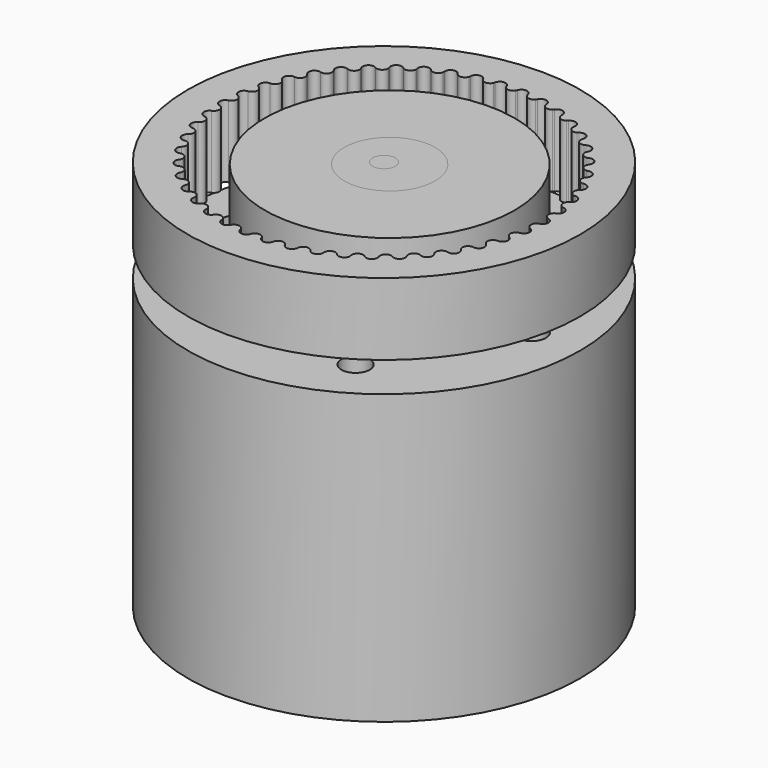
from build123d import *

# Parameters (mm, degrees)
F0_R     = 17.272
F0_R_2   = 1.25
F0_R_3   = 3.175
F0_R_4   = 1
F1_DEPTH = 25.4
F2_DEPTH = 9
F3_DEPTH = 2
F5_R     = 4
F5_R_2   = 1
F6_DEPTH = 7
F5_R_3   = 11
F7_DEPTH = 7
F5_R_4   = 17.272
F8_DEPTH = 6.35


with BuildPart() as f1:
    # F0 (on Top) → F1 (new body)
    with BuildSketch(Plane.XY):
        Circle(F0_R)
        with Locations((-6.5, -11.2583302492)):
            Circle(F0_R_2, mode=Mode.SUBTRACT)
        with Locations((6.5, -11.2583302492)):
            Circle(F0_R_2, mode=Mode.SUBTRACT)
        with Locations((-13, 0)):
            Circle(F0_R_2, mode=Mode.SUBTRACT)
        with Locations((-6.5, 11.2583302492)):
            Circle(F0_R_2, mode=Mode.SUBTRACT)
        Circle(F0_R_3, mode=Mode.SUBTRACT)
        with Locations((13, 0)):
            Circle(F0_R_2, mode=Mode.SUBTRACT)
        with Locations((6.5, 11.2583302492)):
            Circle(F0_R_2, mode=Mode.SUBTRACT)
        Circle(F0_R_3)
        Circle(F0_R_4, mode=Mode.SUBTRACT)
        Circle(F0_R_4)
    extrude(amount=-F1_DEPTH)

    # F0 (on Top) → F2 (join)
    with BuildSketch(Plane.XY):
        Circle(F0_R_4)
    extrude(amount=F2_DEPTH)

    # F0 (on Top) → F3 (join)
    with BuildSketch(Plane.XY):
        Circle(F0_R_3)
        Circle(F0_R_4, mode=Mode.SUBTRACT)
    extrude(amount=F3_DEPTH)


with BuildPart() as f6:
    # F5 (on face) → F6 (new body)
    with BuildSketch(Plane.XY.offset(9)):
        with Locations((0.5, 0)):
            Circle(F5_R)
        Circle(F5_R_2, mode=Mode.SUBTRACT)
    extrude(amount=-F6_DEPTH)


with BuildPart() as f7:
    # F5 (on face) → F7 (new body)
    with BuildSketch(Plane.XY.offset(9)):
        with Locations((0.5, 0)):
            Circle(F5_R_3)
        with Locations((0.5, 0)):
            Circle(F5_R, mode=Mode.SUBTRACT)
    extrude(amount=-F7_DEPTH)


with BuildPart() as f8:
    # F5 (on face) → F8 (new body)
    with BuildSketch(Plane.XY.offset(9)):
        Circle(F5_R_4)
        with BuildLine():
            ThreePointArc((-14.0880578722, -0.485862469), (-14.47, 0), (-14.0880578722, 0.485862469))
            ThreePointArc((-14.0880578722, 0.485862469), (-13.7167689008, 0.8690620595), (-13.9027430775, 1.3691730793))
            ThreePointArc((-13.9027430775, 1.3691730793), (-13.9605193227, 1.4072503651), (-14.0229992053, 1.436986513))
            ThreePointArc((-14.0229992053, 1.436986513), (-14.3352256391, 1.9703314124), (-13.8906826766, 2.3996607525))
            ThreePointArc((-13.8906826766, 2.3996607525), (-13.4706729065, 2.7287340263), (-13.586816468, 3.2495104654))
            ThreePointArc((-13.586816468, 3.2495104654), (-13.6388697257, 3.2951002951), (-13.6967185957, 3.3330671551))
            ThreePointArc((-13.6967185957, 3.3330671551), (-13.9334131479, 3.9039592786), (-13.4345503449, 4.2687578965))
            ThreePointArc((-13.4345503449, 4.2687578965), (-12.9736437635, 4.537574841), (-13.0177931749, 5.0693156199))
            ThreePointArc((-13.0177931749, 5.0693156199), (-13.0631537915, 5.1215687412), (-13.1152940338, 5.1670590625))
            ThreePointArc((-13.1152940338, 5.1670590625), (-13.2720475328, 5.7648637701), (-12.7281577595, 6.0583361577))
            ThreePointArc((-12.7281577595, 6.0583361577), (-12.2349401843, 6.261889222), (-12.2062730256, 6.794689016))
            ThreePointArc((-12.2062730256, 6.794689016), (-12.2440960185, 6.852632052), (-12.2895563592, 6.9047984361))
            ThreePointArc((-12.2895563592, 6.9047984361), (-12.3634487838, 7.518379757), (-11.7846636776, 7.7350590791))
            ThreePointArc((-11.7846636776, 7.7350590791), (-11.2683228188, 7.8695564546), (-11.167373105, 8.3934902116))
            ThreePointArc((-11.167373105, 8.3934902116), (-11.1969539035, 8.4560437933), (-11.2348875024, 8.5139144792))
            ThreePointArc((-11.2348875024, 8.5139144792), (-11.2245423765, 9.1318425544), (-10.6216436088, 9.2676924851))
            ThreePointArc((-10.6216436088, 9.2676924851), (-10.0917979197, 9.3306287403), (-9.920446153, 9.8359365658))
            ThreePointArc((-9.920446153, 9.8359365658), (-9.9412337226, 9.9019354382), (-9.9709339486, 9.9644324044))
            ThreePointArc((-9.9709339486, 9.9644324044), (-9.8765439824, 10.5751964031), (-9.2607624165, 10.6276863153))
            ThreePointArc((-9.2607624165, 10.6276863153), (-8.7272819197, 10.6178890668), (-8.4887200593, 11.095158032))
            ThreePointArc((-8.4887200593, 11.095158032), (-8.5003271671, 11.1633727611), (-8.5212407611, 11.2293318074))
            ThreePointArc((-8.5212407611, 11.2293318074), (-8.344564261, 11.8215543519), (-7.7273707424, 11.7897064577))
            ThreePointArc((-7.7273707424, 11.7897064577), (-7.2001931703, 11.7073582098), (-6.8988651721, 12.147697697))
            ThreePointArc((-6.8988651721, 12.147697697), (-6.9010755997, 12.2168575713), (-6.912812981, 12.2850500056))
            ThreePointArc((-6.912812981, 12.2850500056), (-6.657141096, 12.8476991103), (-6.0500327721, 12.7321066759))
            ThreePointArc((-6.0500327721, 12.7321066759), (-5.5389784454, 12.5787414205), (-5.18049748, 12.9739487381))
            ThreePointArc((-5.18049748, 12.9739487381), (-5.1732700512, 13.0427654402), (-5.1756125746, 13.1119209663))
            ThreePointArc((-5.1756125746, 13.1119209663), (-4.8457079881, 13.6345155431), (-4.2599941384, 13.4373318367))
            ThreePointArc((-4.2599941384, 13.4373318367), (-3.7745830321, 13.2158064784), (-3.3656269217, 13.558519662))
            ThreePointArc((-3.3656269217, 13.558519662), (-3.3490962698, 13.6257112668), (-3.3420002986, 13.6945416482))
            ThreePointArc((-3.3420002986, 13.6945416482), (-2.9440085089, 14.1673467488), (-2.3905998741, 13.8922449299))
            ThreePointArc((-2.3905998741, 13.8922449299), (-1.9398742788, 13.6066860669), (-1.4880611018, 13.8905210182))
            ThreePointArc((-1.4880611018, 13.8905210182), (-1.4625351616, 13.9548358733), (-1.4461328803, 14.0220589302))
            ThreePointArc((-1.4461328803, 14.0220589302), (-0.9874677214, 14.4362670902), (-0.4766732574, 14.0883717851))
            ThreePointArc((-0.4766732574, 14.0883717851), (-0.0690293381, 13.7440988388), (0.4172244808, 13.9637682497))
            ThreePointArc((0.4172244808, 13.9637682497), (0.4512702093, 14.0240082911), (0.4766732574, 14.0883717851))
            ThreePointArc((0.4766732574, 14.0883717851), (0.9874677214, 14.4362670902), (1.4461328803, 14.0220589302))
            ThreePointArc((1.4461328803, 14.0220589302), (1.8031014886, 13.6254850542), (2.3147379608, 13.7768968993))
            ThreePointArc((2.3147379608, 13.7768968993), (2.3566692701, 13.8319399688), (2.3905998741, 13.8922449299))
            ThreePointArc((2.3905998741, 13.8922449299), (2.9440085089, 14.1673467488), (3.3420002986, 13.6945416482))
            ThreePointArc((3.3420002986, 13.6945416482), (3.6416439462, 13.2530542635), (4.1691322522, 13.3333880264))
            ThreePointArc((4.1691322522, 13.3333880264), (4.2181680414, 13.382208776), (4.2599941384, 13.4373318367))
            ThreePointArc((4.2599941384, 13.4373318367), (4.8457079881, 13.6345155431), (5.1756125746, 13.1119209663))
            ThreePointArc((5.1756125746, 13.1119209663), (5.4123494673, 12.6337441475), (5.9458634981, 12.6415033624))
            ThreePointArc((5.9458634981, 12.6415033624), (6.0010903232, 12.6831923538), (6.0500327721, 12.7321066759))
            ThreePointArc((6.0500327721, 12.7321066759), (6.657141096, 12.8476991103), (6.912812981, 12.2850500056))
            ThreePointArc((6.912812981, 12.2850500056), (7.0822331584, 11.779091282), (7.611834557, 11.7141314094))
            ThreePointArc((7.611834557, 11.7141314094), (7.6722236468, 11.7479120555), (7.7273707424, 11.7897064577))
            ThreePointArc((7.7273707424, 11.7897064577), (8.344564261, 11.8215543519), (8.5212407611, 11.2293318074))
            ThreePointArc((8.5212407611, 11.2293318074), (8.6201882459, 10.7050162329), (9.1360115403, 10.5685473522))
            ThreePointArc((9.1360115403, 10.5685473522), (9.2004379602, 10.5937903836), (9.2607624165, 10.6276863153))
            ThreePointArc((9.2607624165, 10.6276863153), (9.8765439824, 10.5751964031), (9.9709339486, 9.9644324044))
            ThreePointArc((9.9709339486, 9.9644324044), (9.9975655363, 9.431526986), (10.4900019146, 9.2260912543))
            ThreePointArc((10.4900019146, 9.2260912543), (10.5572655223, 9.242326441), (10.6216436088, 9.2676924851))
            ThreePointArc((10.6216436088, 9.2676924851), (11.2245423765, 9.1318425544), (11.2348875024, 8.5139144792))
            ThreePointArc((11.2348875024, 8.5139144792), (11.188707097, 7.9823462365), (11.648583401, 7.7117705328))
            ThreePointArc((11.648583401, 7.7117705328), (11.7174312028, 7.718695444), (11.7846636776, 7.7350590791))
            ThreePointArc((11.7846636776, 7.7350590791), (12.3634487838, 7.518379757), (12.2895563592, 6.9047984361))
            ThreePointArc((12.2895563592, 6.9047984361), (12.1714242142, 6.3844694798), (12.5901738187, 6.0537941174))
            ThreePointArc((12.5901738187, 6.0537941174), (12.6593233103, 6.0512797552), (12.7281577595, 6.0583361577))
            ThreePointArc((12.7281577595, 6.0583361577), (13.2720475328, 5.7648637701), (13.1152940338, 5.1670590625))
            ThreePointArc((13.1152940338, 5.1670590625), (12.9274107276, 4.6676621365), (13.2972331196, 4.2830469719))
            ThreePointArc((13.2972331196, 4.2830469719), (13.3653961768, 4.271140174), (13.4345503449, 4.2687578965))
            ThreePointArc((13.4345503449, 4.2687578965), (13.9334131479, 3.9039592786), (13.6967185957, 3.3330671551))
            ThreePointArc((13.6967185957, 3.3330671551), (13.4425840387, 2.8639050792), (13.7565901268, 2.4325147651))
            ThreePointArc((13.7565901268, 2.4325147651), (13.8224970009, 2.4114373327), (13.8906826766, 2.3996607525))
            ThreePointArc((13.8906826766, 2.3996607525), (14.3352256391, 1.9703314124), (14.0229992053, 1.436986513))
            ThreePointArc((14.0229992053, 1.436986513), (13.7073474436, 1.006798889), (13.9596878885, 0.5366694108))
            ThreePointArc((13.9596878885, 0.5366694108), (14.0221108591, 0.5068139765), (14.0880578722, 0.485862469))
            ThreePointArc((14.0880578722, 0.485862469), (14.47, 0), (14.0880578722, -0.485862469))
            ThreePointArc((14.0880578722, -0.485862469), (13.7167689008, -0.8690620595), (13.9027430775, -1.3691730793))
            ThreePointArc((13.9027430775, -1.3691730793), (13.9605193227, -1.4072503651), (14.0229992053, -1.436986513))
            ThreePointArc((14.0229992053, -1.436986513), (14.3352256391, -1.9703314124), (13.8906826766, -2.3996607525))
            ThreePointArc((13.8906826766, -2.3996607525), (13.4706729065, -2.7287340263), (13.586816468, -3.2495104654))
            ThreePointArc((13.586816468, -3.2495104654), (13.6388697257, -3.2951002951), (13.6967185957, -3.3330671551))
            ThreePointArc((13.6967185957, -3.3330671551), (13.9334131479, -3.9039592786), (13.4345503449, -4.2687578965))
            ThreePointArc((13.4345503449, -4.2687578965), (12.9736437635, -4.537574841), (13.0177931749, -5.0693156199))
            ThreePointArc((13.0177931749, -5.0693156199), (13.0631537915, -5.1215687412), (13.1152940338, -5.1670590625))
            ThreePointArc((13.1152940338, -5.1670590625), (13.2720475328, -5.7648637701), (12.7281577595, -6.0583361577))
            ThreePointArc((12.7281577595, -6.0583361577), (12.2349401843, -6.261889222), (12.2062730256, -6.794689016))
            ThreePointArc((12.2062730256, -6.794689016), (12.2440960185, -6.852632052), (12.2895563592, -6.9047984361))
            ThreePointArc((12.2895563592, -6.9047984361), (12.3634487838, -7.518379757), (11.7846636776, -7.7350590791))
            ThreePointArc((11.7846636776, -7.7350590791), (11.2683228188, -7.8695564546), (11.167373105, -8.3934902116))
            ThreePointArc((11.167373105, -8.3934902116), (11.1969539035, -8.4560437933), (11.2348875024, -8.5139144792))
            ThreePointArc((11.2348875024, -8.5139144792), (11.2245423765, -9.1318425544), (10.6216436088, -9.2676924851))
            ThreePointArc((10.6216436088, -9.2676924851), (10.0917979197, -9.3306287403), (9.920446153, -9.8359365658))
            ThreePointArc((9.920446153, -9.8359365658), (9.9412337226, -9.9019354382), (9.9709339486, -9.9644324044))
            ThreePointArc((9.9709339486, -9.9644324044), (9.8765439824, -10.5751964031), (9.2607624165, -10.6276863153))
            ThreePointArc((9.2607624165, -10.6276863153), (8.7272819197, -10.6178890668), (8.4887200593, -11.095158032))
            ThreePointArc((8.4887200593, -11.095158032), (8.5003271671, -11.1633727611), (8.5212407611, -11.2293318074))
            ThreePointArc((8.5212407611, -11.2293318074), (8.344564261, -11.8215543519), (7.7273707424, -11.7897064577))
            ThreePointArc((7.7273707424, -11.7897064577), (7.2001931703, -11.7073582098), (6.8988651721, -12.147697697))
            ThreePointArc((6.8988651721, -12.147697697), (6.9010755997, -12.2168575713), (6.912812981, -12.2850500056))
            ThreePointArc((6.912812981, -12.2850500056), (6.657141096, -12.8476991103), (6.0500327721, -12.7321066759))
            ThreePointArc((6.0500327721, -12.7321066759), (5.5389784454, -12.5787414205), (5.18049748, -12.9739487381))
            ThreePointArc((5.18049748, -12.9739487381), (5.1732700512, -13.0427654402), (5.1756125746, -13.1119209663))
            ThreePointArc((5.1756125746, -13.1119209663), (4.8457079881, -13.6345155431), (4.2599941384, -13.4373318367))
            ThreePointArc((4.2599941384, -13.4373318367), (3.7745830321, -13.2158064784), (3.3656269217, -13.558519662))
            ThreePointArc((3.3656269217, -13.558519662), (3.3490962698, -13.6257112668), (3.3420002986, -13.6945416482))
            ThreePointArc((3.3420002986, -13.6945416482), (2.9440085089, -14.1673467488), (2.3905998741, -13.8922449299))
            ThreePointArc((2.3905998741, -13.8922449299), (1.9398742788, -13.6066860669), (1.4880611018, -13.8905210182))
            ThreePointArc((1.4880611018, -13.8905210182), (1.4625351616, -13.9548358733), (1.4461328803, -14.0220589302))
            ThreePointArc((1.4461328803, -14.0220589302), (0.9874677214, -14.4362670902), (0.4766732574, -14.0883717851))
            ThreePointArc((0.4766732574, -14.0883717851), (0.0690293381, -13.7440988388), (-0.4172244808, -13.9637682497))
            ThreePointArc((-0.4172244808, -13.9637682497), (-0.4512702093, -14.0240082911), (-0.4766732574, -14.0883717851))
            ThreePointArc((-0.4766732574, -14.0883717851), (-0.9874677214, -14.4362670902), (-1.4461328803, -14.0220589302))
            ThreePointArc((-1.4461328803, -14.0220589302), (-1.8031014886, -13.6254850542), (-2.3147379608, -13.7768968993))
            ThreePointArc((-2.3147379608, -13.7768968993), (-2.3566692701, -13.8319399688), (-2.3905998741, -13.8922449299))
            ThreePointArc((-2.3905998741, -13.8922449299), (-2.9440085089, -14.1673467488), (-3.3420002986, -13.6945416482))
            ThreePointArc((-3.3420002986, -13.6945416482), (-3.6416439462, -13.2530542635), (-4.1691322522, -13.3333880264))
            ThreePointArc((-4.1691322522, -13.3333880264), (-4.2181680414, -13.382208776), (-4.2599941384, -13.4373318367))
            ThreePointArc((-4.2599941384, -13.4373318367), (-4.8457079881, -13.6345155431), (-5.1756125746, -13.1119209663))
            ThreePointArc((-5.1756125746, -13.1119209663), (-5.4123494673, -12.6337441475), (-5.9458634981, -12.6415033624))
            ThreePointArc((-5.9458634981, -12.6415033624), (-6.0010903232, -12.6831923538), (-6.0500327721, -12.7321066759))
            ThreePointArc((-6.0500327721, -12.7321066759), (-6.657141096, -12.8476991103), (-6.912812981, -12.2850500056))
            ThreePointArc((-6.912812981, -12.2850500056), (-7.0822331584, -11.779091282), (-7.611834557, -11.7141314094))
            ThreePointArc((-7.611834557, -11.7141314094), (-7.6722236468, -11.7479120555), (-7.7273707424, -11.7897064577))
            ThreePointArc((-7.7273707424, -11.7897064577), (-8.344564261, -11.8215543519), (-8.5212407611, -11.2293318074))
            ThreePointArc((-8.5212407611, -11.2293318074), (-8.6201882459, -10.7050162329), (-9.1360115403, -10.5685473522))
            ThreePointArc((-9.1360115403, -10.5685473522), (-9.2004379602, -10.5937903836), (-9.2607624165, -10.6276863153))
            ThreePointArc((-9.2607624165, -10.6276863153), (-9.8765439824, -10.5751964031), (-9.9709339486, -9.9644324044))
            ThreePointArc((-9.9709339486, -9.9644324044), (-9.9975655363, -9.431526986), (-10.4900019146, -9.2260912543))
            ThreePointArc((-10.4900019146, -9.2260912543), (-10.5572655223, -9.242326441), (-10.6216436088, -9.2676924851))
            ThreePointArc((-10.6216436088, -9.2676924851), (-11.2245423765, -9.1318425544), (-11.2348875024, -8.5139144792))
            ThreePointArc((-11.2348875024, -8.5139144792), (-11.188707097, -7.9823462365), (-11.648583401, -7.7117705328))
            ThreePointArc((-11.648583401, -7.7117705328), (-11.7174312028, -7.718695444), (-11.7846636776, -7.7350590791))
            ThreePointArc((-11.7846636776, -7.7350590791), (-12.3634487838, -7.518379757), (-12.2895563592, -6.9047984361))
            ThreePointArc((-12.2895563592, -6.9047984361), (-12.1714242142, -6.3844694798), (-12.5901738187, -6.0537941174))
            ThreePointArc((-12.5901738187, -6.0537941174), (-12.6593233103, -6.0512797552), (-12.7281577595, -6.0583361577))
            ThreePointArc((-12.7281577595, -6.0583361577), (-13.2720475328, -5.7648637701), (-13.1152940338, -5.1670590625))
            ThreePointArc((-13.1152940338, -5.1670590625), (-12.9274107276, -4.6676621365), (-13.2972331196, -4.2830469719))
            ThreePointArc((-13.2972331196, -4.2830469719), (-13.3653961768, -4.271140174), (-13.4345503449, -4.2687578965))
            ThreePointArc((-13.4345503449, -4.2687578965), (-13.9334131479, -3.9039592786), (-13.6967185957, -3.3330671551))
            ThreePointArc((-13.6967185957, -3.3330671551), (-13.4425840387, -2.8639050792), (-13.7565901268, -2.4325147651))
            ThreePointArc((-13.7565901268, -2.4325147651), (-13.8224970009, -2.4114373327), (-13.8906826766, -2.3996607525))
            ThreePointArc((-13.8906826766, -2.3996607525), (-14.3352256391, -1.9703314124), (-14.0229992053, -1.436986513))
            ThreePointArc((-14.0229992053, -1.436986513), (-13.7073474436, -1.006798889), (-13.9596878885, -0.5366694108))
            ThreePointArc((-13.9596878885, -0.5366694108), (-14.0221108591, -0.5068139765), (-14.0880578722, -0.485862469))
        make_face(mode=Mode.SUBTRACT)
    extrude(amount=-F8_DEPTH)


solid = Compound([f1.part, f6.part, f7.part, f8.part])
